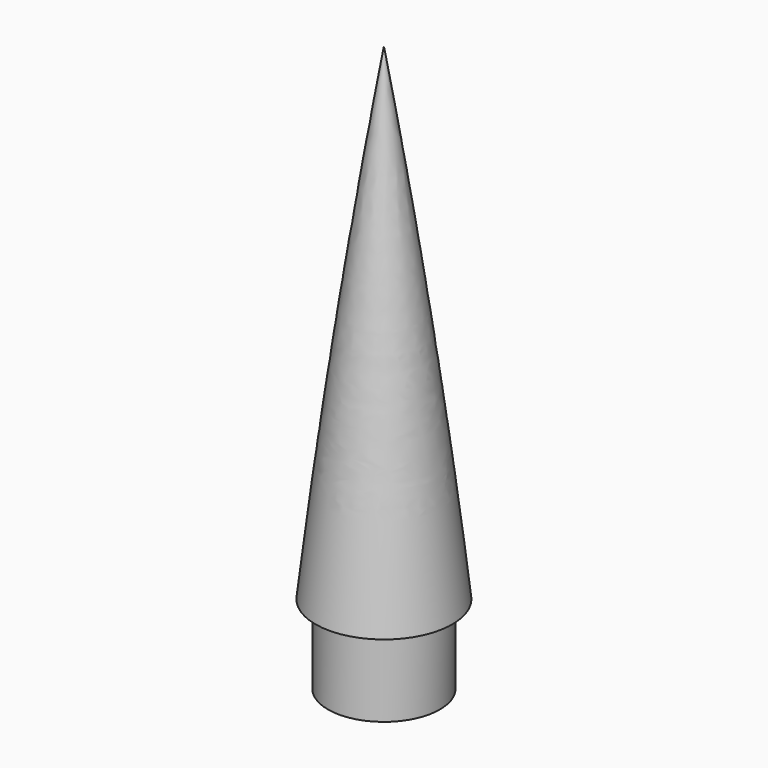
from build123d import *


with BuildPart() as f2:
    # F0 (on Front) → F2 (revolve)
    with BuildSketch(Plane.XZ):
        with BuildLine():
            Line((-11.875, 16.75), (-11.875, 0))
            Line((-11.875, 0), (-9.375, 0))
            Line((-9.375, 0), (-9.375, 20.672696))
            ThreePointArc((-9.375, 20.672696), (-5.283723, 66.896889), (0, 113))
            Line((0, 113), (0, 120))
            ThreePointArc((0, 120), (-8.011407, 68.481929), (-14.5, 16.75))
            Line((-14.5, 16.75), (-11.875, 16.75))
        make_face()
    revolve(axis=Axis((0, 0, -10.30835), (0, 0, -1)))


solid = f2.part
